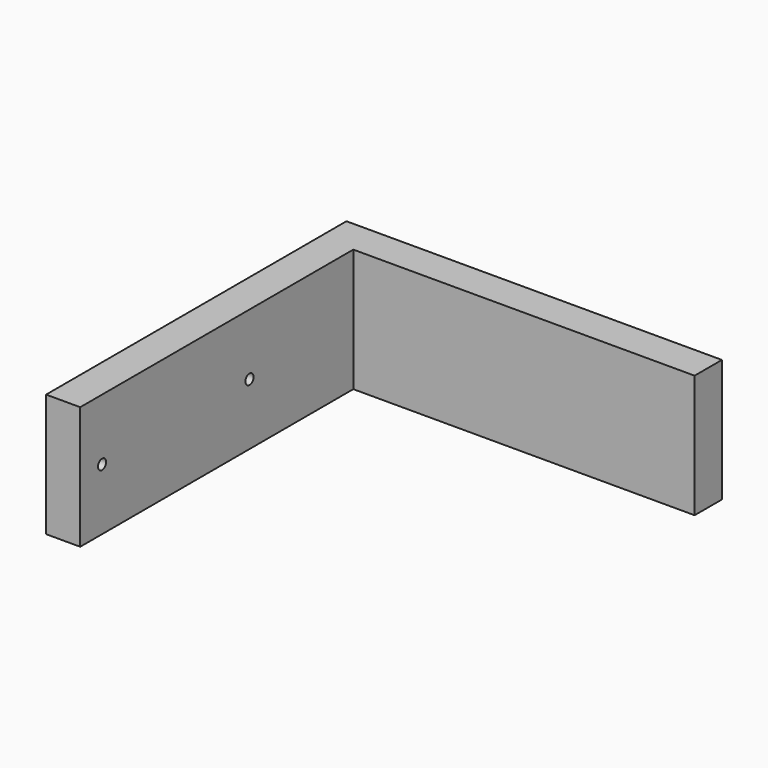
from build123d import *

# Parameters (mm, degrees)
PAD_DEPTH    = 18
SKETCH001_R  = 0.75
POCKET_DEPTH = 5.001


with BuildPart() as part:
    # Sketch → Pad (new body)
    with BuildSketch(Plane.XY):
        Polygon((5, 0), (5, 50), (55, 50), (55, 55), (0, 55), (0, 0), align=None)
    extrude(amount=PAD_DEPTH)

    # Sketch001 (on Face2 of Pad) → Pocket (cut, through all)
    with BuildSketch(Plane.YZ.offset(5)):
        with Locations((4, 9)):
            Circle(SKETCH001_R)
        with Locations((31, 9)):
            Circle(SKETCH001_R)
    extrude(amount=-POCKET_DEPTH, mode=Mode.SUBTRACT)


solid = part.part
